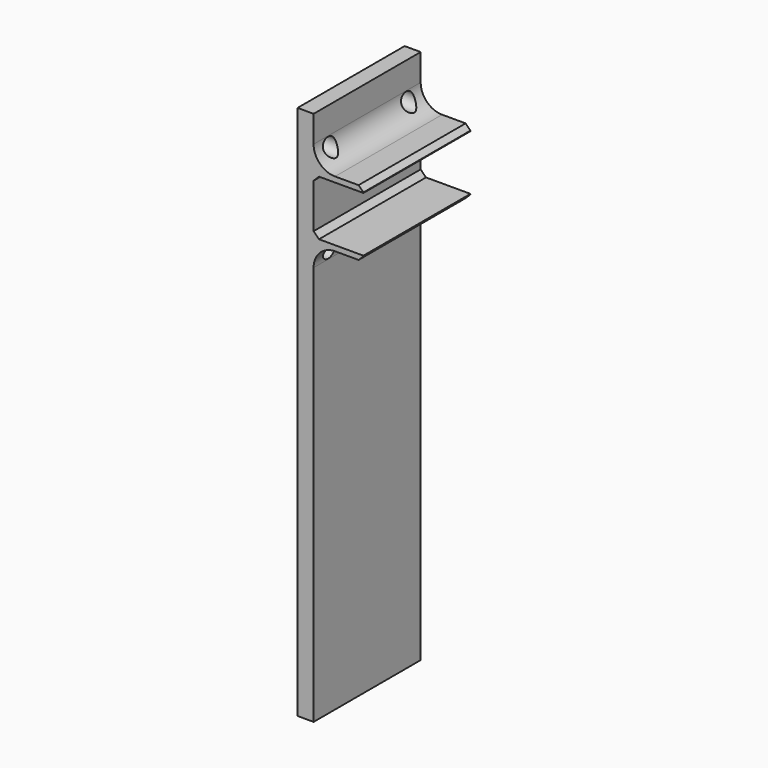
from build123d import *

# Parameters (mm, degrees)
SKETCH005_R                               = 1.5
EXTRUDE003_DEPTH                          = 20
SKETCH_W                                  = 25
SKETCH_H                                  = 100
EXTRUDE001_DEPTH                          = 3
EXTRUDE002_DEPTH                          = 25
EXTRUDE002_ONTO_SKETCH004_ROLL_ANGLE      = 90
EXTRUDE002_ONTO_SKETCH004_PLACEMENT_ANGLE = 180
FILLET_R                                  = 4
CHAMFER001_SIZE                           = 0.9


with BuildPart() as extrude003:
    # Sketch005 (on Face12 of Chamfer001) → Extrude003 (new body, symmetric)
    with BuildSketch(Plane(origin=(-8.15, 0, 0), x_dir=(0, -1, 0), z_dir=(-1, 0, 0))):
        with Locations((3.380089, 8.530089)):
            Circle(SKETCH005_R)
        with Locations((21.619911, -8.530089)):
            Circle(SKETCH005_R)
        with Locations((3.380089, -8.530089)):
            Circle(SKETCH005_R)
        with Locations((21.619911, 8.530089)):
            Circle(SKETCH005_R)
    extrude(amount=EXTRUDE003_DEPTH, both=True)


with BuildPart() as extrude001:
    # Sketch (on Face6 of Chamfer) → Extrude001 (new body)
    with BuildSketch(Plane(origin=(-5.15, 0, 0), x_dir=(0, -1, 0), z_dir=(-1, 0, 0))):
        with Locations((12.5, -34.85)):
            Rectangle(SKETCH_W, SKETCH_H)
    extrude(amount=EXTRUDE001_DEPTH)


with BuildPart() as cut:
    # Sketch004 as drawn → Extrude002 (new)
    with BuildSketch(Plane.XY):
        Polygon((5.15, 4.15), (4.15, 5.15), (-4.15, 5.15), (-4.15, 6.15), (5.15, 6.15), align=None)
        Polygon((5.15, -4.15), (4.15, -5.15), (-4.15, -5.15), (-4.15, -6.15), (5.15, -6.15), align=None)
    extrude(amount=-EXTRUDE002_DEPTH)


with BuildPart() as cut_1:
    # Extrude002 onto Sketch004 roll: moved
    add(cut.part.rotate(Axis((0, 0, 0), (1, 0, 0)), EXTRUDE002_ONTO_SKETCH004_ROLL_ANGLE))


with BuildPart() as cut_2:
    # Extrude002 onto Sketch004 placement: moved
    add(cut_1.part.rotate(Axis((0, 0, 0), (0, 0, 1)), EXTRUDE002_ONTO_SKETCH004_PLACEMENT_ANGLE))

    # Fusion: union Extrude001
    add(extrude001.part)

    # Fillet
    fillet_edges = [cut_2.edges().sort_by_distance(p)[0] for p in [
        (-5.15, -12.5, 6.15),
        (-5.15, -12.5, -6.15),
    ]]
    fillet(fillet_edges, radius=FILLET_R)

    # Chamfer001
    chamfer001_edges = [cut_2.edges().sort_by_distance(p)[0] for p in [
        (4.15, -12.5, -6.15),
        (4.15, -12.5, 6.15),
    ]]
    chamfer(chamfer001_edges, length=CHAMFER001_SIZE)

    # Cut: cut Extrude003
    add(extrude003.part, mode=Mode.SUBTRACT)


solid = cut_2.part
